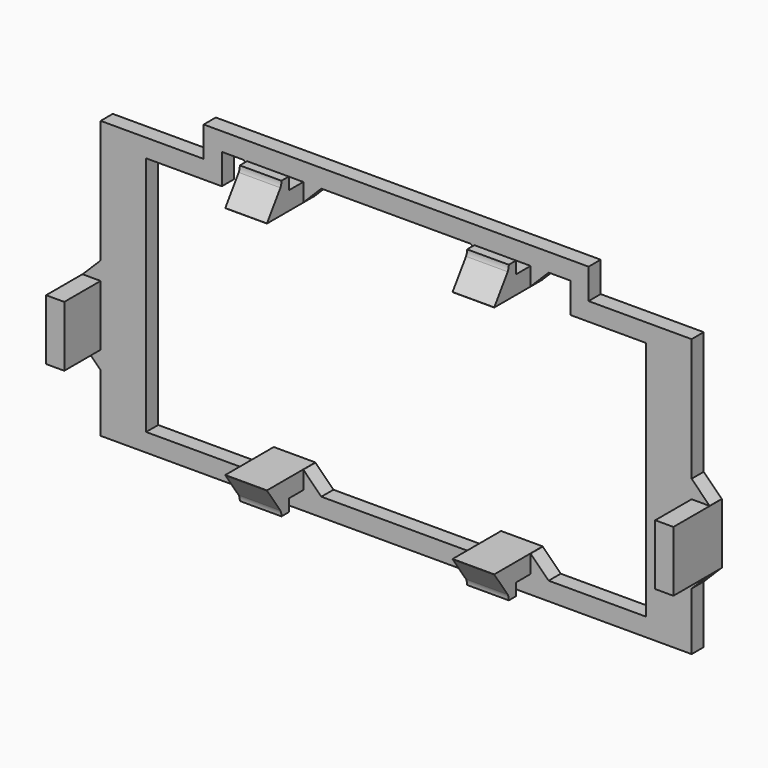
from build123d import *

# Parameters (mm, degrees)
PAD_DEPTH         = 1
SKETCH001_W       = 2.75
SKETCH001_H       = 1.2
PAD001_DEPTH      = 3
PAD001_DEPTH_BACK = 1
CHAMFER_SIZE      = 1.19
SKETCH002_W       = 2.75
SKETCH002_H       = 2
PAD002_DEPTH      = 0.6
FILLET_R          = 0.79
CHAMFER001_SIZE   = 1.19
SKETCH003_W       = 1.2
SKETCH003_H       = 4
PAD003_DEPTH      = 3
PAD003_DEPTH_BACK = 1
CHAMFER002_SIZE   = 1.19


with BuildPart() as part:
    # Sketch → Pad (new body)
    with BuildSketch(Plane.XZ):
        Polygon((-19.5, -9.15), (19.5, -9.15), (19.5, 9.15), (12.7, 9.15), (12.7, 11.15), (-12.7, 11.15), (-12.7, 9.15), (-19.5, 9.15), align=None)
        Polygon((-16.5, -7.95), (16.5, -7.95), (16.5, 7.95), (11.5, 7.95), (11.5, 9.95), (-11.5, 9.95), (-11.5, 7.95), (-16.5, 7.95), align=None, mode=Mode.SUBTRACT)
    extrude(amount=-PAD_DEPTH)

    # Sketch001 → Pad001 (join, two sides)
    with BuildSketch(Plane.XZ) as pad001_sk:
        with Locations((-7.5, 9.35)):
            Rectangle(SKETCH001_W, SKETCH001_H)
        with Locations((7.5, 9.35)):
            Rectangle(SKETCH001_W, SKETCH001_H)
        with Locations((-7.5, -7.35)):
            Rectangle(SKETCH001_W, SKETCH001_H)
        with Locations((7.5, -7.35)):
            Rectangle(SKETCH001_W, SKETCH001_H)
    extrude(amount=PAD001_DEPTH)
    extrude(pad001_sk.sketch, amount=-PAD001_DEPTH_BACK)

    # Chamfer
    chamfer_edges = [part.edges().sort_by_distance(p)[0] for p in [
        (-6.125, 0.5, -7.95),
        (-8.875, 0.5, -7.95),
        (6.125, 0.5, -7.95),
        (8.875, 0.5, -7.95),
        (8.875, 0.5, 9.95),
        (6.125, 0.5, 9.95),
        (-6.125, 0.5, 9.95),
        (-8.875, 0.5, 9.95),
    ]]
    chamfer(chamfer_edges, length=CHAMFER_SIZE)

    # Sketch002 (on DatumPlane) → Pad002 (join)
    with BuildSketch(Plane.XZ.offset(1.2)):
        with Locations((-7.5, 9.75)):
            Rectangle(SKETCH002_W, SKETCH002_H)
        with Locations((7.5, 9.75)):
            Rectangle(SKETCH002_W, SKETCH002_H)
        with Locations((7.5, -7.75)):
            Rectangle(SKETCH002_W, SKETCH002_H)
        with Locations((-7.5, -7.75)):
            Rectangle(SKETCH002_W, SKETCH002_H)
    extrude(amount=PAD002_DEPTH)

    # Fillet
    fillet_edges = [part.edges().sort_by_distance(p)[0] for p in [
        (7.5, -1.8, 9.95),
        (-7.5, -1.8, 9.95),
        (-7.5, -1.8, -7.95),
        (7.5, -1.8, -7.95),
    ]]
    fillet(fillet_edges, radius=FILLET_R)

    # Chamfer001
    chamfer001_edges = [part.edges().sort_by_distance(p)[0] for p in [
        (7.5, -3, 9.95),
        (-7.5, -3, 9.95),
        (-7.5, -3, -7.95),
        (7.5, -3, -7.95),
    ]]
    chamfer(chamfer001_edges, length=CHAMFER001_SIZE)

    # Sketch003 → Pad003 (join, two sides)
    with BuildSketch(Plane.XZ) as pad003_sk:
        with Locations((20.1, -2.15)):
            Rectangle(SKETCH003_W, SKETCH003_H)
        with Locations((-20.1, -2.15)):
            Rectangle(SKETCH003_W, SKETCH003_H)
    extrude(amount=PAD003_DEPTH)
    extrude(pad003_sk.sketch, amount=-PAD003_DEPTH_BACK)

    # Chamfer002
    chamfer002_edges = [part.edges().sort_by_distance(p)[0] for p in [
        (-19.5, 0.5, -4.15),
        (-19.5, 0.5, -0.15),
        (19.5, 0.5, -4.15),
        (19.5, 0.5, -0.15),
    ]]
    chamfer(chamfer002_edges, length=CHAMFER002_SIZE)


solid = part.part
